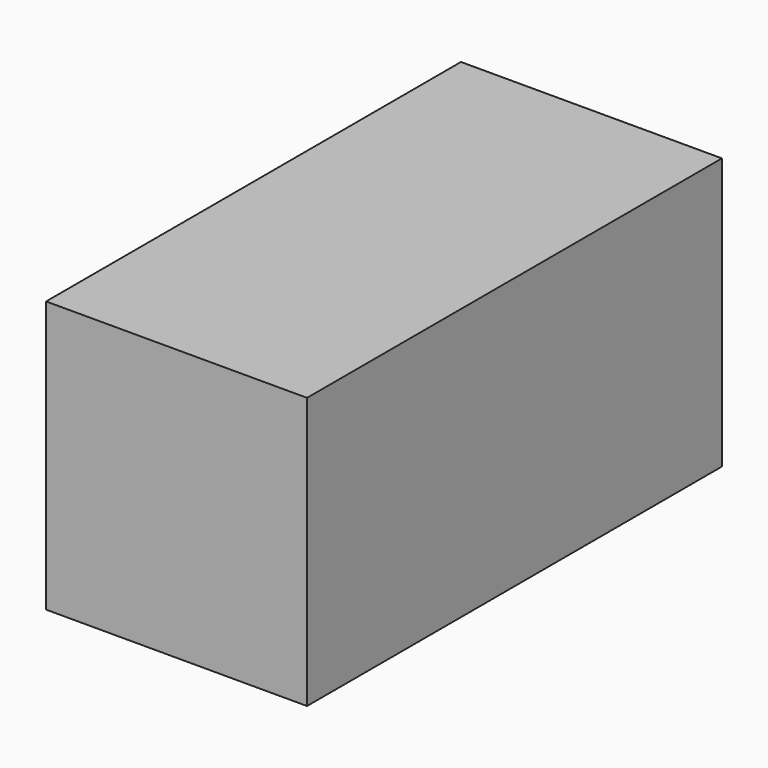
from build123d import *

# Parameters (mm, degrees)
F1_DEPTH = 127
F3_W     = 50.480350852
F3_H     = 26.4108004048
F3_R     = 4.0876975992
F4_DEPTH = 25.4


with BuildPart() as f1:
    # F0 (on Front) → F1 (new body)
    with BuildSketch(Plane.XZ):
        Polygon((-38.6266857386, -9.9715394899), (-20.369682461, -28.674185276), (0, -28.674185276), (0, 22.6510167122), (-20.369682461, 22.6510167122), (-38.6266857386, 8.4274075925), align=None)
        Polygon((-38.6266857386, -9.9715394899), (-20.369682461, -28.674185276), (0, -28.674185276), (0, 22.6510167122), (-20.369682461, 22.6510167122), (-38.6266857386, 8.4274075925), align=None)
    extrude(amount=-F1_DEPTH)


with BuildPart() as f4:
    # F3 (on Right) → F4 (new body)
    with BuildSketch(Plane.YZ):
        with Locations((25.240175426, 2.739997115)):
            Rectangle(F3_W, F3_H)
        with Locations((16.2280499935, 7.0170103572)):
            Circle(F3_R, mode=Mode.SUBTRACT)
        with Locations((16.2280499935, 7.0170103572)):
            Circle(F3_R)
    extrude(amount=F4_DEPTH)


solid = f4.part
